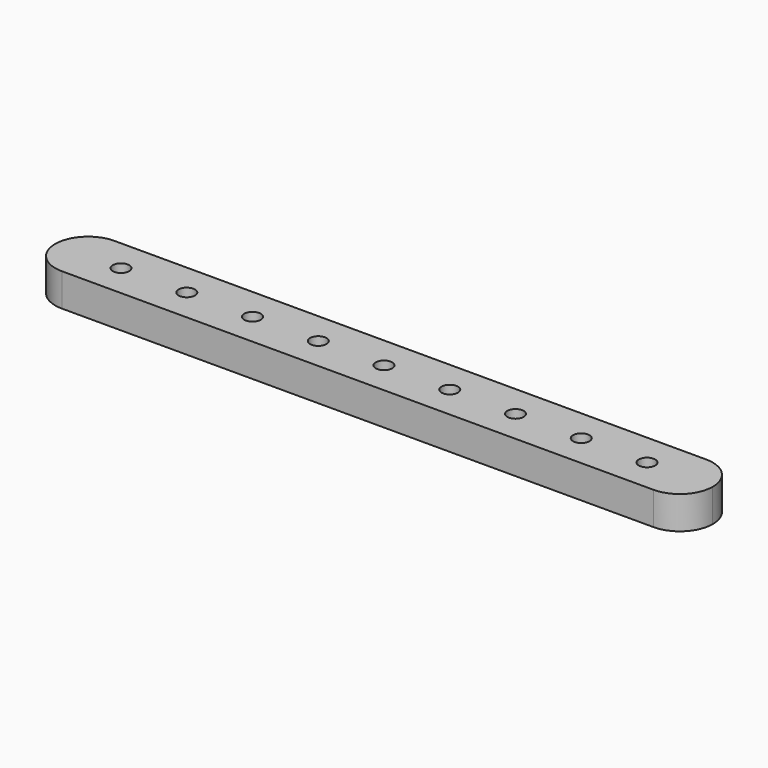
from build123d import *

# Parameters (mm, degrees)
F0_R     = 3.175
F1_DEPTH = 12.7


with BuildPart() as f1:
    # F0 (on Top) → F1 (new body)
    with BuildSketch(Plane.XY):
        with BuildLine():
            Line((-114.3, -12.7), (114.3, -12.7))
            ThreePointArc((114.3, -12.7), (123.280256, -8.980256), (127, 0))
            ThreePointArc((127, 0), (123.280256, 8.980256), (114.3, 12.7))
            Line((114.3, 12.7), (-114.3, 12.7))
            ThreePointArc((-114.3, 12.7), (-123.280256, 8.980256), (-127, 0))
            ThreePointArc((-127, 0), (-123.280256, -8.980256), (-114.3, -12.7))
        make_face()
        with Locations((-101.6, 0)):
            Circle(F0_R, mode=Mode.SUBTRACT)
        with Locations((-76.2, 0)):
            Circle(F0_R, mode=Mode.SUBTRACT)
        with Locations((-50.8, 0)):
            Circle(F0_R, mode=Mode.SUBTRACT)
        with Locations((-25.4, 0)):
            Circle(F0_R, mode=Mode.SUBTRACT)
        Circle(F0_R, mode=Mode.SUBTRACT)
        with Locations((25.4, 0)):
            Circle(F0_R, mode=Mode.SUBTRACT)
        with Locations((50.8, 0)):
            Circle(F0_R, mode=Mode.SUBTRACT)
        with Locations((76.2, 0)):
            Circle(F0_R, mode=Mode.SUBTRACT)
        with Locations((101.6, 0)):
            Circle(F0_R, mode=Mode.SUBTRACT)
    extrude(amount=F1_DEPTH)


solid = f1.part
